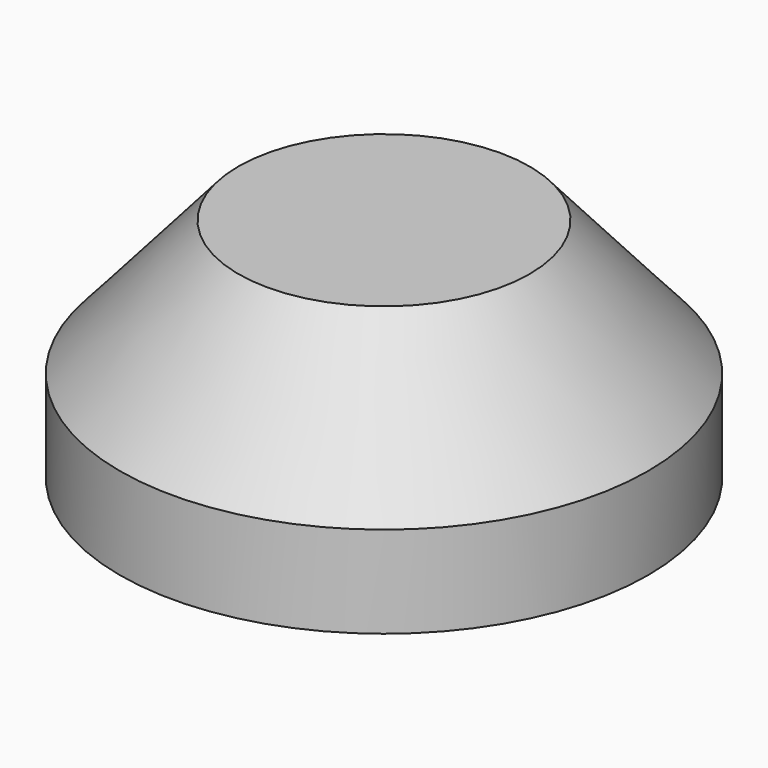
from build123d import *

# Parameters (mm, degrees)
F0_W   = 97.1849262714
F0_H   = 55.0156012177
F0_W_2 = 87.4084606767
F0_H_2 = 43.704226613


with BuildPart() as f1:
    # F0 (on Front) → F1 (revolve)
    with BuildSketch(Plane.XZ):
        Polygon((22.4934220314, 108.4693148732), (-48.5924631357, 27.5078006089), (48.5924631357, 27.5078006089), (109.9018827081, 64.7650882602), (22.4934220314, 64.7650882602), align=None)
        Rectangle(F0_W, F0_H)
        with Locations((66.1976523697, 86.6172015667)):
            Rectangle(F0_W_2, F0_H_2)
    revolve(axis=Axis((109.9018827081, 0, 86.6172015667), (0, 0, 1)))


solid = f1.part
